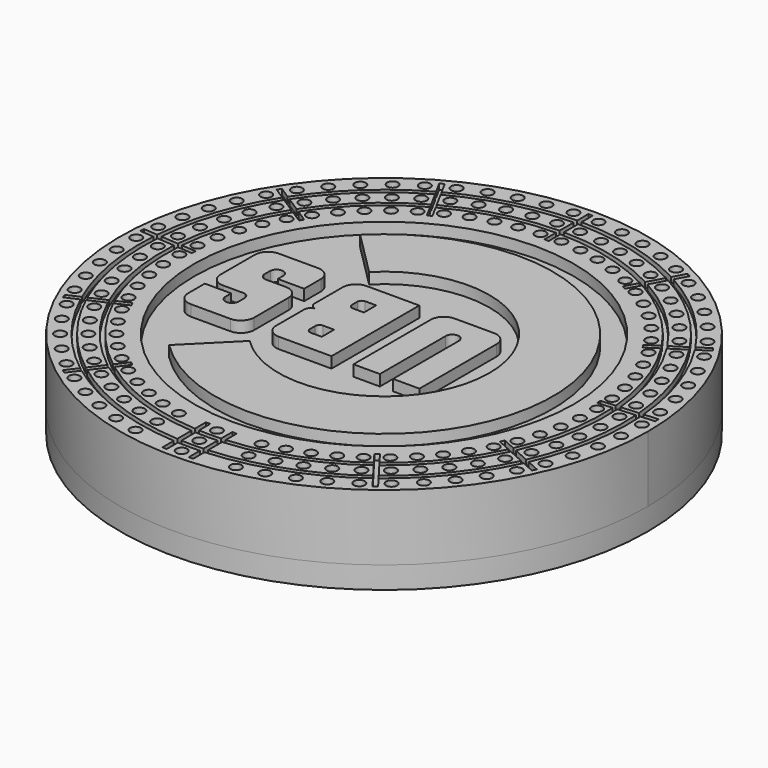
from build123d import *

# Parameters (mm, degrees)
F0_R      = 76.2
F1_DEPTH  = 6.35
F2_R      = 3.175
F3_DEPTH  = 6.35
F5_DEPTH  = 12.7
F7_DEPTH  = 6.35
F8_R      = 1.5875
F11_DEPTH = 6.35
F9_R      = 1.5875
F12_DEPTH = 6.35
F10_R     = 1.5875
F13_DEPTH = 6.35
F14_DEPTH = 6.35
F15_DEPTH = 6.35
F16_DEPTH = 6.35
F17_DEPTH = 6.35
F18_DEPTH = 6.35
F19_DEPTH = 6.35
F20_R     = 64.135
F20_R_2   = 62.865
F21_DEPTH = 1.5875
F22_R     = 70.485
F22_R_2   = 69.215
F23_DEPTH = 1.5875
F24_W     = 1.27
F24_H     = 15.71714
F25_DEPTH = 1.5875
F27_DEPTH = 1.5875
F28_R     = 54.843657
F29_DEPTH = 3.175
F31_DEPTH = 3.175
F33_DEPTH = 3.175


with BuildPart() as f1:
    # F0 (on Top) → F1 (new body)
    with BuildSketch(Plane.XY):
        Circle(F0_R)
    extrude(amount=F1_DEPTH)

    # F2 (on face) → F3 (cut)
    with BuildSketch(Plane.XY.offset(6.35)):
        with Locations((0, 66.675)):
            Circle(F2_R)
    extrude(amount=-F3_DEPTH, mode=Mode.SUBTRACT)

    # F4 (on face) → F5 (join)
    with BuildSketch(Plane.XY.offset(6.35)):
        with BuildLine():
            ThreePointArc((13.522887, 74.990476), (13.856836, 58.928793), (0, 50.8))
            Line((0, 50.8), (0, 50.696464))
            Line((0, 50.696464), (-62.533668, 43.542857))
            ThreePointArc((-62.533668, 43.542857), (-22.818573, -72.703182), (76.2, 0))
            ThreePointArc((76.2, 0), (58.467444, 48.867146), (13.522887, 74.990476))
        make_face()
    extrude(amount=F5_DEPTH)

    # F6 (on face) → F7 (join)
    with BuildSketch(Plane.XY.offset(19.05)):
        with BuildLine():
            ThreePointArc((-62.533668, 43.542857), (-22.818573, -72.703182), (76.2, 0))
            ThreePointArc((76.2, 0), (58.467444, 48.867146), (13.522887, 74.990476))
            ThreePointArc((13.522887, 74.990476), (13.856836, 58.928793), (0, 50.8))
            Line((0, 50.8), (0, 50.696464))
            Line((0, 50.696464), (-62.533668, 43.542857))
        make_face()
        with BuildLine():
            ThreePointArc((0, 50.8), (13.856836, 58.928793), (13.522887, 74.990476))
            ThreePointArc((13.522887, 74.990476), (-29.116187, 70.41795), (-62.533668, 43.542857))
            Line((-62.533668, 43.542857), (0, 50.696464))
            Line((0, 50.696464), (0, 50.8))
        make_face()
    extrude(amount=F7_DEPTH)

    # F8 (on face) → F11 (cut)
    with BuildSketch(Plane.XY.offset(25.4)):
        with Locations((0, -73.025)):
            Circle(F8_R)
        with Locations((7.270942, -72.662122)):
            Circle(F8_R)
        with Locations((14.469622, -71.577096)):
            Circle(F8_R)
        with Locations((21.524497, -69.780704)):
            Circle(F8_R)
        with Locations((28.365451, -67.2908)):
            Circle(F8_R)
        with Locations((34.924497, -64.13213)):
            Circle(F8_R)
        with Locations((41.136447, -60.336086)):
            Circle(F8_R)
        with Locations((46.939565, -55.940395)):
            Circle(F8_R)
        with Locations((52.276177, -50.988744)):
            Circle(F8_R)
        with Locations((57.093244, -45.530343)):
            Circle(F8_R)
        with Locations((61.342893, -39.619441)):
            Circle(F8_R)
        with Locations((64.982889, -33.314783)):
            Circle(F8_R)
        with Locations((67.977055, -26.679028)):
            Circle(F8_R)
        with Locations((70.295636, -19.778125)):
            Circle(F8_R)
        with Locations((71.915586, -12.680658)):
            Circle(F8_R)
        with Locations((72.820807, -5.457165)):
            Circle(F8_R)
        with Locations((73.002303, 1.820564)):
            Circle(F8_R)
        with Locations((72.458268, 9.080199)):
            Circle(F8_R)
        with Locations((71.194111, 16.249591)):
            Circle(F8_R)
        with Locations((69.222394, 23.257488)):
            Circle(F8_R)
        with Locations((66.562715, 30.034241)):
            Circle(F8_R)
        with Locations((63.241505, 36.5125)):
            Circle(F8_R)
        with Locations((59.291773, 42.627882)):
            Circle(F8_R)
        with Locations((54.752772, 48.319608)):
            Circle(F8_R)
        with Locations((49.669614, 53.531113)):
            Circle(F8_R)
        with Locations((44.092817, 58.210601)):
            Circle(F8_R)
        with Locations((38.077806, 62.311567)):
            Circle(F8_R)
        with Locations((31.68436, 65.793252)):
            Circle(F8_R)
        with Locations((24.976021, 68.621054)):
            Circle(F8_R)
        with Locations((18.019459, 70.766869)):
            Circle(F8_R)
        with Locations((10.883811, 72.209371)):
            Circle(F8_R)
        with Locations((3.639996, 72.934224)):
            Circle(F8_R)
        with Locations((-3.639996, 72.934224)):
            Circle(F8_R)
        with Locations((-10.883811, 72.209371)):
            Circle(F8_R)
        with Locations((-18.019459, 70.766869)):
            Circle(F8_R)
        with Locations((-24.976021, 68.621054)):
            Circle(F8_R)
        with Locations((-31.68436, 65.793252)):
            Circle(F8_R)
        with Locations((-38.077806, 62.311567)):
            Circle(F8_R)
        with Locations((-44.092817, 58.210601)):
            Circle(F8_R)
        with Locations((-49.669614, 53.531113)):
            Circle(F8_R)
        with Locations((-54.752772, 48.319608)):
            Circle(F8_R)
        with Locations((-59.291773, 42.627882)):
            Circle(F8_R)
        with Locations((-63.241505, 36.5125)):
            Circle(F8_R)
        with Locations((-66.562715, 30.034241)):
            Circle(F8_R)
        with Locations((-69.222394, 23.257488)):
            Circle(F8_R)
        with Locations((-71.194111, 16.249591)):
            Circle(F8_R)
        with Locations((-72.458268, 9.080199)):
            Circle(F8_R)
        with Locations((-73.002303, 1.820564)):
            Circle(F8_R)
        with Locations((-72.820807, -5.457165)):
            Circle(F8_R)
        with Locations((-71.915586, -12.680658)):
            Circle(F8_R)
        with Locations((-70.295636, -19.778125)):
            Circle(F8_R)
        with Locations((-67.977055, -26.679028)):
            Circle(F8_R)
        with Locations((-64.982889, -33.314783)):
            Circle(F8_R)
        with Locations((-61.342893, -39.619441)):
            Circle(F8_R)
        with Locations((-57.093244, -45.530343)):
            Circle(F8_R)
        with Locations((-52.276177, -50.988744)):
            Circle(F8_R)
        with Locations((-46.939565, -55.940395)):
            Circle(F8_R)
        with Locations((-41.136447, -60.336086)):
            Circle(F8_R)
        with Locations((-34.924497, -64.13213)):
            Circle(F8_R)
        with Locations((-28.365451, -67.2908)):
            Circle(F8_R)
        with Locations((-21.524497, -69.780704)):
            Circle(F8_R)
        with Locations((-14.469622, -71.577096)):
            Circle(F8_R)
        with Locations((-7.270942, -72.662122)):
            Circle(F8_R)
    extrude(amount=-F11_DEPTH, mode=Mode.SUBTRACT)

    # F9 (on face) → F12 (cut)
    with BuildSketch(Plane.XY.offset(25.4)):
        with Locations((0, -66.675)):
            Circle(F9_R)
        with Locations((6.638686, -66.343677)):
            Circle(F9_R)
        with Locations((13.211394, -65.353001)):
            Circle(F9_R)
        with Locations((19.652801, -63.712817)):
            Circle(F9_R)
        with Locations((25.89889, -61.439426)):
            Circle(F9_R)
        with Locations((31.887584, -58.555423)):
            Circle(F9_R)
        with Locations((37.559365, -55.08947)):
            Circle(F9_R)
        with Locations((42.857864, -51.076013)):
            Circle(F9_R)
        with Locations((47.730422, -46.55494)):
            Circle(F9_R)
        with Locations((52.128614, -41.571183)):
            Circle(F9_R)
        with Locations((56.008728, -36.174272)):
            Circle(F9_R)
        with Locations((59.332203, -30.417846)):
            Circle(F9_R)
        with Locations((62.066007, -24.359113)):
            Circle(F9_R)
        with Locations((64.182972, -18.058288)):
            Circle(F9_R)
        with Locations((65.662057, -11.577992)):
            Circle(F9_R)
        with Locations((66.488563, -4.982629)):
            Circle(F9_R)
        with Locations((66.654276, 1.662254)):
            Circle(F9_R)
        with Locations((66.157549, 8.290617)):
            Circle(F9_R)
        with Locations((65.003319, 14.836583)):
            Circle(F9_R)
        with Locations((63.203056, 21.235097)):
            Circle(F9_R)
        with Locations((60.774653, 27.422568)):
            Circle(F9_R)
        with Locations((57.742244, 33.3375)):
            Circle(F9_R)
        with Locations((54.135967, 38.921109)):
            Circle(F9_R)
        with Locations((49.991662, 44.117903)):
            Circle(F9_R)
        with Locations((45.350517, 48.876234)):
            Circle(F9_R)
        with Locations((40.258659, 53.14881)):
            Circle(F9_R)
        with Locations((34.766692, 56.89317)):
            Circle(F9_R)
        with Locations((28.929198, 60.072099)):
            Circle(F9_R)
        with Locations((22.804193, 62.654005)):
            Circle(F9_R)
        with Locations((16.452549, 64.613228)):
            Circle(F9_R)
        with Locations((9.937393, 65.930295)):
            Circle(F9_R)
        with Locations((3.323474, 66.592118)):
            Circle(F9_R)
        with Locations((-3.323474, 66.592118)):
            Circle(F9_R)
        with Locations((-9.937393, 65.930295)):
            Circle(F9_R)
        with Locations((-16.452549, 64.613228)):
            Circle(F9_R)
        with Locations((-22.804193, 62.654005)):
            Circle(F9_R)
        with Locations((-28.929198, 60.072099)):
            Circle(F9_R)
        with Locations((-34.766692, 56.89317)):
            Circle(F9_R)
        with Locations((-40.258659, 53.14881)):
            Circle(F9_R)
        with Locations((-45.350517, 48.876234)):
            Circle(F9_R)
        with Locations((-49.991662, 44.117903)):
            Circle(F9_R)
        with Locations((-54.135967, 38.921109)):
            Circle(F9_R)
        with Locations((-57.742244, 33.3375)):
            Circle(F9_R)
        with Locations((-60.774653, 27.422568)):
            Circle(F9_R)
        with Locations((-63.203056, 21.235097)):
            Circle(F9_R)
        with Locations((-65.003319, 14.836583)):
            Circle(F9_R)
        with Locations((-66.157549, 8.290617)):
            Circle(F9_R)
        with Locations((-66.654276, 1.662254)):
            Circle(F9_R)
        with Locations((-66.488563, -4.982629)):
            Circle(F9_R)
        with Locations((-65.662057, -11.577992)):
            Circle(F9_R)
        with Locations((-64.182972, -18.058288)):
            Circle(F9_R)
        with Locations((-62.066007, -24.359113)):
            Circle(F9_R)
        with Locations((-59.332203, -30.417846)):
            Circle(F9_R)
        with Locations((-56.008728, -36.174272)):
            Circle(F9_R)
        with Locations((-52.128614, -41.571183)):
            Circle(F9_R)
        with Locations((-47.730422, -46.55494)):
            Circle(F9_R)
        with Locations((-42.857864, -51.076013)):
            Circle(F9_R)
        with Locations((-37.559365, -55.08947)):
            Circle(F9_R)
        with Locations((-31.887584, -58.555423)):
            Circle(F9_R)
        with Locations((-25.89889, -61.439426)):
            Circle(F9_R)
        with Locations((-19.652801, -63.712817)):
            Circle(F9_R)
        with Locations((-13.211394, -65.353001)):
            Circle(F9_R)
        with Locations((-6.638686, -66.343677)):
            Circle(F9_R)
    extrude(amount=-F12_DEPTH, mode=Mode.SUBTRACT)

    # F10 (on face) → F13 (cut)
    with BuildSketch(Plane.XY.offset(25.4)):
        with Locations((0, -60.325)):
            Circle(F10_R)
        with Locations((6.00643, -60.025232)):
            Circle(F10_R)
        with Locations((11.953166, -59.128905)):
            Circle(F10_R)
        with Locations((17.781106, -57.64493)):
            Circle(F10_R)
        with Locations((23.432329, -55.588052)):
            Circle(F10_R)
        with Locations((28.850671, -52.978716)):
            Circle(F10_R)
        with Locations((33.982283, -49.842854)):
            Circle(F10_R)
        with Locations((38.776163, -46.211631)):
            Circle(F10_R)
        with Locations((43.184668, -42.121136)):
            Circle(F10_R)
        with Locations((47.163984, -37.612022)):
            Circle(F10_R)
        with Locations((50.674564, -32.729103)):
            Circle(F10_R)
        with Locations((53.681517, -27.520908)):
            Circle(F10_R)
        with Locations((56.154959, -22.039197)):
            Circle(F10_R)
        with Locations((58.070308, -16.338451)):
            Circle(F10_R)
        with Locations((59.408528, -10.475326)):
            Circle(F10_R)
        with Locations((60.156319, -4.508093)):
            Circle(F10_R)
        with Locations((60.30625, 1.503944)):
            Circle(F10_R)
        with Locations((59.85683, 7.501034)):
            Circle(F10_R)
        with Locations((58.812526, 13.423575)):
            Circle(F10_R)
        with Locations((57.183717, 19.212707)):
            Circle(F10_R)
        with Locations((54.986591, 24.810894)):
            Circle(F10_R)
        with Locations((52.242982, 30.1625)):
            Circle(F10_R)
        with Locations((48.98016, 35.214337)):
            Circle(F10_R)
        with Locations((45.230551, 39.916198)):
            Circle(F10_R)
        with Locations((41.03142, 44.221354)):
            Circle(F10_R)
        with Locations((36.424501, 48.087018)):
            Circle(F10_R)
        with Locations((31.455579, 51.474772)):
            Circle(F10_R)
        with Locations((26.174037, 54.350947)):
            Circle(F10_R)
        with Locations((20.632365, 56.686957)):
            Circle(F10_R)
        with Locations((14.88564, 58.459587)):
            Circle(F10_R)
        with Locations((8.990975, 59.65122)):
            Circle(F10_R)
        with Locations((3.006953, 60.250011)):
            Circle(F10_R)
        with Locations((-3.006953, 60.250011)):
            Circle(F10_R)
        with Locations((-8.990975, 59.65122)):
            Circle(F10_R)
        with Locations((-14.88564, 58.459587)):
            Circle(F10_R)
        with Locations((-20.632365, 56.686957)):
            Circle(F10_R)
        with Locations((-26.174037, 54.350947)):
            Circle(F10_R)
        with Locations((-31.455579, 51.474772)):
            Circle(F10_R)
        with Locations((-36.424501, 48.087018)):
            Circle(F10_R)
        with Locations((-41.03142, 44.221354)):
            Circle(F10_R)
        with Locations((-45.230551, 39.916198)):
            Circle(F10_R)
        with Locations((-48.98016, 35.214337)):
            Circle(F10_R)
        with Locations((-52.242982, 30.1625)):
            Circle(F10_R)
        with Locations((-54.986591, 24.810894)):
            Circle(F10_R)
        with Locations((-57.183717, 19.212707)):
            Circle(F10_R)
        with Locations((-58.812526, 13.423575)):
            Circle(F10_R)
        with Locations((-59.85683, 7.501034)):
            Circle(F10_R)
        with Locations((-60.30625, 1.503944)):
            Circle(F10_R)
        with Locations((-60.156319, -4.508093)):
            Circle(F10_R)
        with Locations((-59.408528, -10.475326)):
            Circle(F10_R)
        with Locations((-58.070308, -16.338451)):
            Circle(F10_R)
        with Locations((-56.154959, -22.039197)):
            Circle(F10_R)
        with Locations((-53.681517, -27.520908)):
            Circle(F10_R)
        with Locations((-50.674564, -32.729103)):
            Circle(F10_R)
        with Locations((-47.163984, -37.612022)):
            Circle(F10_R)
        with Locations((-43.184668, -42.121136)):
            Circle(F10_R)
        with Locations((-38.776163, -46.211631)):
            Circle(F10_R)
        with Locations((-33.982283, -49.842854)):
            Circle(F10_R)
        with Locations((-28.850671, -52.978716)):
            Circle(F10_R)
        with Locations((-23.432329, -55.588052)):
            Circle(F10_R)
        with Locations((-17.781106, -57.64493)):
            Circle(F10_R)
        with Locations((-11.953166, -59.128905)):
            Circle(F10_R)
        with Locations((-6.00643, -60.025232)):
            Circle(F10_R)
    extrude(amount=-F13_DEPTH, mode=Mode.SUBTRACT)

    # F14 (add): a face of the model
    f14_faces = [f1.faces().sort_by_distance(p)[0] for p in [
        (6.00643, -60.025232, 19.05),
    ]]
    extrude(f14_faces, amount=F14_DEPTH)

    # F15 (add): a face of the model
    f15_faces = [f1.faces().sort_by_distance(p)[0] for p in [
        (6.638686, -66.343677, 19.05),
    ]]
    extrude(f15_faces, amount=F15_DEPTH)

    # F16 (add): a face of the model
    f16_faces = [f1.faces().sort_by_distance(p)[0] for p in [
        (7.270942, -72.662122, 19.05),
    ]]
    extrude(f16_faces, amount=F16_DEPTH)

    # F17 (add): a face of the model
    f17_faces = [f1.faces().sort_by_distance(p)[0] for p in [
        (-6.00643, -60.025232, 19.05),
    ]]
    extrude(f17_faces, amount=F17_DEPTH)

    # F18 (add): a face of the model
    f18_faces = [f1.faces().sort_by_distance(p)[0] for p in [
        (-6.638686, -66.343677, 19.05),
    ]]
    extrude(f18_faces, amount=F18_DEPTH)

    # F19 (add): a face of the model
    f19_faces = [f1.faces().sort_by_distance(p)[0] for p in [
        (-7.270942, -72.662122, 19.05),
    ]]
    extrude(f19_faces, amount=F19_DEPTH)

    # F20 (on face) → F21 (cut)
    with BuildSketch(Plane.XY.offset(25.4)):
        Circle(F20_R)
        Circle(F20_R_2, mode=Mode.SUBTRACT)
    extrude(amount=-F21_DEPTH, mode=Mode.SUBTRACT)

    # F22 (on face) → F23 (cut)
    with BuildSketch(Plane.XY.offset(25.4)):
        Circle(F22_R)
        Circle(F22_R_2, mode=Mode.SUBTRACT)
    extrude(amount=-F23_DEPTH, mode=Mode.SUBTRACT)

    # F24 (on face) → F25 (cut)
    with BuildSketch(Plane.XY.offset(25.4)):
        with Locations((3.81, -66.59607)):
            Rectangle(F24_W, F24_H)
        with Locations((-3.81, -66.59607)):
            Rectangle(F24_W, F24_H)
    extrude(amount=-F25_DEPTH, mode=Mode.SUBTRACT)

    # F26 (on face) → F27 (cut)
    with BuildSketch(Plane.XY.offset(25.4)):
        Polygon((45.512257, -59.032857), (35.926862, -46.378379), (34.914504, -47.14521), (44.499899, -59.799689), align=None)
        Polygon((68.201795, -30.079211), (53.731802, -23.549668), (53.209439, -24.707267), (67.679432, -31.236811), align=None)
        Polygon((74.281945, 6.199715), (58.451275, 5.014165), (58.54612, 3.747711), (74.376789, 4.933262), align=None)
        Polygon((62.271989, 40.968807), (48.935934, 32.356882), (49.624888, 31.289998), (62.960943, 39.901922), align=None)
        Polygon((35.096749, 65.760642), (27.503077, 51.819632), (28.618358, 51.212138), (36.21203, 65.153148), align=None)
        Polygon((-0.625708, 74.53759), (-0.627687, 58.66259), (0.642313, 58.662432), (0.644292, 74.537432), align=None)
        Polygon((-36.195784, 65.162175), (-28.605588, 51.219272), (-27.490156, 51.826487), (-35.080352, 65.76939), align=None)
        Polygon((-62.950993, 39.917619), (-49.617085, 31.30237), (-48.927865, 32.369083), (-62.261773, 40.984332), align=None)
        Polygon((-74.375557, 4.951806), (-58.545183, 3.762308), (-58.450023, 5.028738), (-74.280397, 6.218236), align=None)
        Polygon((-67.687218, -31.219935), (-53.215598, -24.694), (-53.737673, -23.53627), (-68.209293, -30.062205), align=None)
        Polygon((-44.514808, -59.788592), (-34.926258, -47.136504), (-35.938425, -46.36942), (-45.526975, -59.021508), align=None)
    extrude(amount=-F27_DEPTH, mode=Mode.SUBTRACT)

    # F28 (on face) → F29 (cut)
    with BuildSketch(Plane.XY.offset(25.4)):
        Circle(F28_R)
        with BuildLine():
            Line((-27.881445, 0.31069), (-27.881445, -0.011013))
            Line((-27.881445, -0.011013), (-27.881445, -12.028207))
            ThreePointArc((-27.881445, -12.028207), (-28.997368, -14.722284), (-31.691445, -15.838207))
            Line((-31.691445, -15.838207), (-43.117602, -15.838207))
            ThreePointArc((-43.117602, -15.838207), (-45.811679, -14.722284), (-46.927602, -12.028207))
            Line((-46.927602, -12.028207), (-46.927602, -6.01961))
            Line((-46.927602, -6.01961), (-39.298538, -6.01961))
            Line((-39.298538, -6.01961), (-39.298538, -8.10314))
            ThreePointArc((-39.298538, -8.10314), (-37.393514, -10.008164), (-35.48849, -8.10314))
            Line((-35.48849, -8.10314), (-35.48849, -6.01961))
            ThreePointArc((-35.48849, -6.01961), (-35.909177, -4.825517), (-36.985436, -4.158807))
            Line((-36.985436, -4.158807), (-43.117602, -4.158807))
            ThreePointArc((-43.117602, -4.158807), (-45.811679, -3.042884), (-46.927602, -0.348807))
            Line((-46.927602, -0.348807), (-46.927602, -0.011013))
            Line((-46.927602, -0.011013), (-46.927602, 12.031225))
            ThreePointArc((-46.927602, 12.031225), (-45.811679, 14.725302), (-43.117602, 15.841225))
            Line((-43.117602, 15.841225), (-31.691445, 15.841225))
            ThreePointArc((-31.691445, 15.841225), (-28.997368, 14.725302), (-27.881445, 12.031225))
            Line((-27.881445, 12.031225), (-27.881445, 6.025369))
            Line((-27.881445, 6.025369), (-35.48849, 6.025369))
            Line((-35.48849, 6.025369), (-35.48849, 7.717876))
            Line((-35.48849, 7.717876), (-35.48849, 8.118361))
            ThreePointArc((-35.48849, 8.118361), (-37.393514, 9.833638), (-39.298538, 8.118361))
            Line((-39.298538, 8.118361), (-39.298538, 7.717876))
            Line((-39.298538, 7.717876), (-39.298538, 6.025369))
            ThreePointArc((-39.298538, 6.025369), (-38.727697, 4.665564), (-37.35728, 4.12069))
            Line((-37.35728, 4.12069), (-31.691445, 4.12069))
            ThreePointArc((-31.691445, 4.12069), (-28.997368, 3.004767), (-27.881445, 0.31069))
        make_face(mode=Mode.SUBTRACT)
        with BuildLine():
            Line((-2.493432, 15.841225), (-2.493432, -15.838207))
            Line((-2.493432, -15.838207), (-17.733432, -15.838207))
            ThreePointArc((-17.733432, -15.838207), (-20.427509, -14.722284), (-21.543432, -12.028207))
            Line((-21.543432, -12.028207), (-21.543432, -1.903491))
            ThreePointArc((-21.543432, -1.903491), (-20.98547, -0.556453), (-19.638432, 0.001509))
            ThreePointArc((-19.638432, 0.001509), (-20.98547, 0.559471), (-21.543432, 1.906509))
            Line((-21.543432, 1.906509), (-21.543432, 12.031225))
            ThreePointArc((-21.543432, 12.031225), (-20.427509, 14.725302), (-17.733432, 15.841225))
            Line((-17.733432, 15.841225), (-2.493432, 15.841225))
        make_face(mode=Mode.SUBTRACT)
        with BuildLine():
            ThreePointArc((-34.471397, 34.471397), (48.749917, 0), (-34.471397, -34.471397))
            Line((-34.471397, -34.471397), (-21.543432, -21.543432))
            ThreePointArc((-21.543432, -21.543432), (30.467014, 0), (-21.543432, 21.543432))
            Line((-21.543432, 21.543432), (-34.471397, 34.471397))
        make_face(mode=Mode.SUBTRACT)
        with BuildLine():
            Line((22.899639, 12.031225), (22.899639, 0.001509))
            Line((22.899639, 0.001509), (22.899639, -15.838207))
            Line((22.899639, -15.838207), (15.271123, -15.838207))
            Line((15.271123, -15.838207), (15.271123, 0))
            Line((15.271123, 0), (15.271123, 7.933614))
            ThreePointArc((15.271123, 7.933614), (13.3711, 9.833638), (11.471076, 7.933614))
            Line((11.471076, 7.933614), (11.471076, 0))
            Line((11.471076, 0), (11.471076, -15.838207))
            Line((11.471076, -15.838207), (3.852336, -15.838207))
            Line((3.852336, -15.838207), (3.852336, 0.001509))
            Line((3.852336, 0.001509), (3.852336, 12.031225))
            ThreePointArc((3.852336, 12.031225), (4.96826, 14.725302), (7.662336, 15.841225))
            Line((7.662336, 15.841225), (19.089639, 15.841225))
            ThreePointArc((19.089639, 15.841225), (21.783716, 14.725302), (22.899639, 12.031225))
        make_face(mode=Mode.SUBTRACT)
    extrude(amount=-F29_DEPTH, mode=Mode.SUBTRACT)

    # F30 (on face) → F31 (cut)
    with BuildSketch(Plane.XY.offset(25.4)):
        with BuildLine():
            Line((-10.113432, 5.376425), (-10.113432, 9.821425))
            Line((-10.113432, 9.821425), (-13.288432, 9.821425))
            ThreePointArc((-13.288432, 9.821425), (-14.186458, 9.449451), (-14.558432, 8.551425))
            Line((-14.558432, 8.551425), (-14.558432, 6.646425))
            ThreePointArc((-14.558432, 6.646425), (-14.186458, 5.748399), (-13.288432, 5.376425))
            Line((-13.288432, 5.376425), (-10.113432, 5.376425))
        make_face()
    extrude(amount=-F31_DEPTH, mode=Mode.SUBTRACT)

    # F32 (on face) → F33 (cut)
    with BuildSketch(Plane.XY.offset(25.4)):
        with BuildLine():
            Line((-13.288432, -9.818407), (-10.113432, -9.818407))
            Line((-10.113432, -9.818407), (-10.113432, -5.373407))
            Line((-10.113432, -5.373407), (-13.288432, -5.373407))
            ThreePointArc((-13.288432, -5.373407), (-14.186458, -5.745381), (-14.558432, -6.643407))
            Line((-14.558432, -6.643407), (-14.558432, -8.548407))
            ThreePointArc((-14.558432, -8.548407), (-14.186458, -9.446433), (-13.288432, -9.818407))
        make_face()
    extrude(amount=-F33_DEPTH, mode=Mode.SUBTRACT)


solid = f1.part
